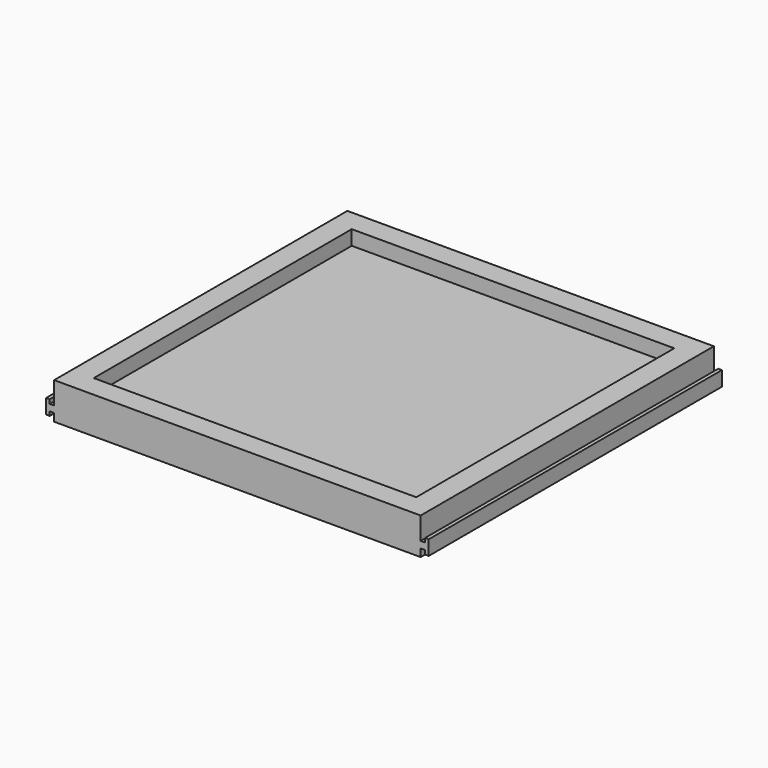
from build123d import *

# Parameters (mm, degrees)
F0_W     = 127
F0_H     = 127
F1_DEPTH = 12.7
F2_T     = -7.62
F4_DEPTH = 63.5


with BuildPart() as f1:
    # F0 (on Top) → F1 (new body)
    with BuildSketch(Plane.XY):
        Rectangle(F0_W, F0_H)
    extrude(amount=F1_DEPTH)

    # F2
    f2_openings = [f1.faces().sort_by_distance(p)[0] for p in [
        (0, 0, 12.7),
    ]]
    offset(amount=F2_T, openings=f2_openings)

    # F3 (on Front) → F4 (join, symmetric)
    with BuildSketch(Plane.XZ):
        Polygon((-63.5, 4.947344), (-65.025825, 4.947344), (-65.025825, 2.672656), (-63.5, 2.672656), (-63.5, 3.81), align=None)
        Polygon((-65.025825, 2.672656), (-65.025825, 4.947344), (-65.025825, 6.35), (-66.295825, 6.35), (-66.295825, 1.27), (-65.025825, 1.27), align=None)
        Polygon((65.025825, 6.35), (65.025825, 4.947344), (65.025825, 2.672656), (65.025825, 1.27), (66.295825, 1.27), (66.295825, 6.35), align=None)
        Polygon((65.025825, 2.672656), (65.025825, 4.947344), (63.5, 4.947344), (63.5, 3.81), (63.5, 2.672656), align=None)
    extrude(amount=F4_DEPTH, both=True)


solid = f1.part
